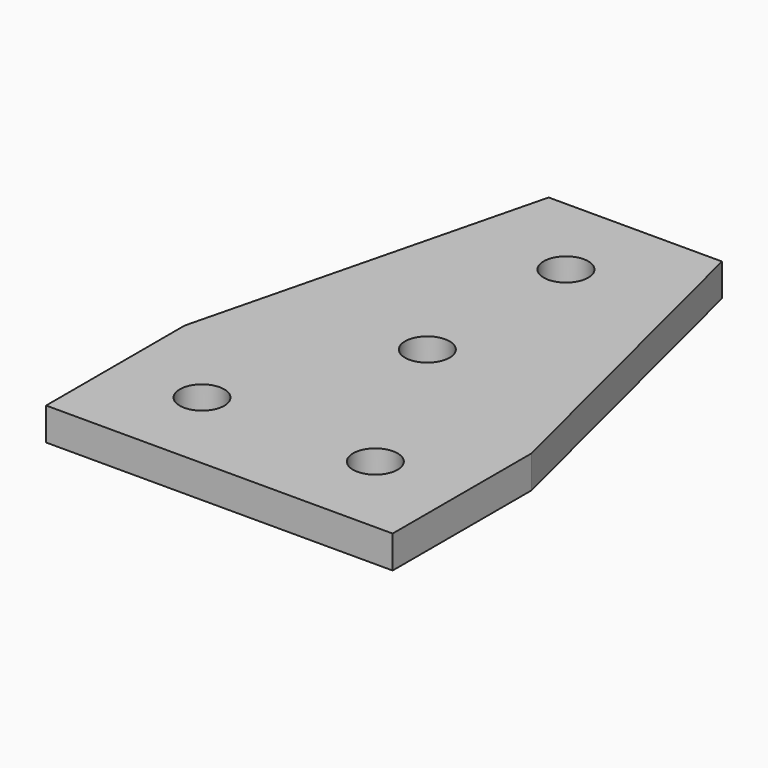
from build123d import *

# Parameters (mm, degrees)
F0_R     = 3.2639
F1_DEPTH = 4.7752


with BuildPart() as f1:
    # F0 (on Top) → F1 (new body)
    with BuildSketch(Plane.XY):
        Polygon((25.4, -12.70551), (12.7, 38.10551), (-12.7, 38.10551), (-25.402755, -12.70551), (-25.402755, -38.10551), (25.4, -38.10551), align=None)
        with Locations((-12.702755, -25.40551)):
            Circle(F0_R, mode=Mode.SUBTRACT)
        with Locations((12.702755, -25.40551)):
            Circle(F0_R, mode=Mode.SUBTRACT)
        Circle(F0_R, mode=Mode.SUBTRACT)
        with Locations((0, 25.40551)):
            Circle(F0_R, mode=Mode.SUBTRACT)
    extrude(amount=F1_DEPTH)


solid = f1.part
